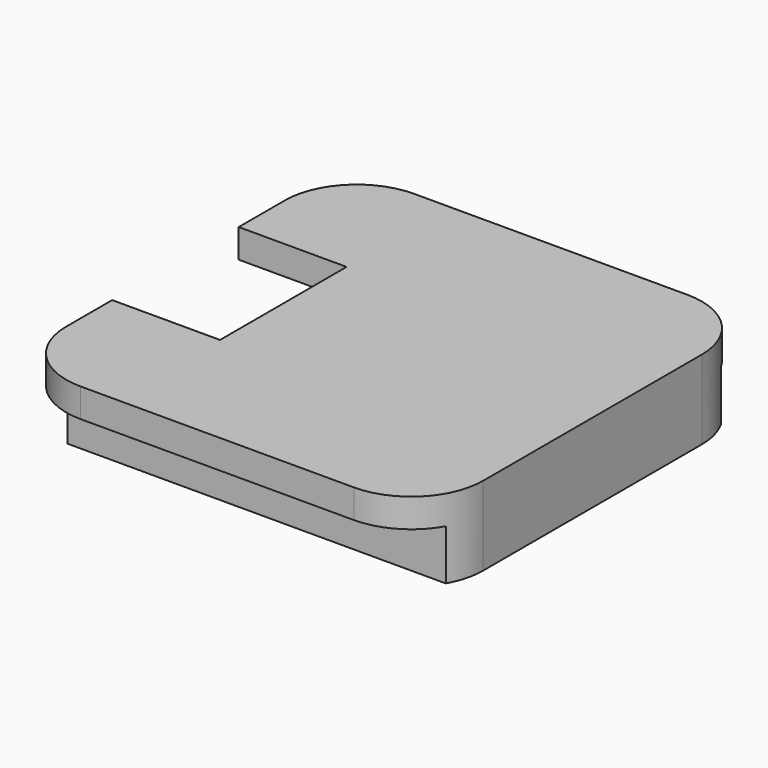
from build123d import *

# Parameters (mm, degrees)
SKETCH006_W     = 29
SKETCH006_H     = 29
PAD002_DEPTH    = 2
PAD003_DEPTH    = 3.5
SKETCH008_W     = 7.5
SKETCH008_H     = 11
POCKET004_DEPTH = 2.001
POCKET005_DEPTH = 5.501


with BuildPart() as part:
    # Sketch006 → Pad002 (new body)
    with BuildSketch(Plane.XY):
        with Locations((14.5, 14.5)):
            Rectangle(SKETCH006_W, SKETCH006_H)
    extrude(amount=-PAD002_DEPTH)

    # Sketch007 (on Face6 of Pad002) → Pad003 (join)
    with BuildSketch(Plane(origin=(0, 0, -2), x_dir=(1, 0, 0), z_dir=(0, 0, -1))):
        Polygon((2.05, -26.45), (29, -26.45), (29, -2.55), (2.05, -2.55), (2.05, -4.3), (27, -4.3), (27, -24.7), (2.05, -24.7), align=None)
    extrude(amount=PAD003_DEPTH)

    # Sketch008 (on Face5 of Pad003) → Pocket004 (cut, through all)
    with BuildSketch(Plane(origin=(0, 0, -2), x_dir=(1, 0, 0), z_dir=(0, 0, -1))):
        with Locations((3.75, -14.5)):
            Rectangle(SKETCH008_W, SKETCH008_H)
    extrude(amount=-POCKET004_DEPTH, mode=Mode.SUBTRACT)

    # Sketch009 (on Face2 of Pocket004) → Pocket005 (cut, through all)
    with BuildSketch(Plane.XY):
        with BuildLine():
            ThreePointArc((5, 29), (1.464466, 27.535534), (0, 24))
            Line((0, 29), (0, 24))
            Line((0, 29), (5, 29))
        make_face()
        with BuildLine():
            Line((29, 29), (29, 24))
            ThreePointArc((29, 24), (27.535534, 27.535534), (24, 29))
            Line((29, 29), (24, 29))
        make_face()
        with BuildLine():
            Line((29, 0), (24, 0))
            ThreePointArc((24, 0), (27.535534, 1.464466), (29, 5))
            Line((29, 0), (29, 5))
        make_face()
        with BuildLine():
            Line((0, 0), (5, 0))
            ThreePointArc((0, 5), (1.464466, 1.464466), (5, 0))
            Line((0, 0), (0, 5))
        make_face()
    extrude(amount=-POCKET005_DEPTH, mode=Mode.SUBTRACT)


with BuildPart() as part_1:
    # Body001 placement: moved
    add(part.part.moved(Location((0, 0, 14))))


solid = part_1.part
